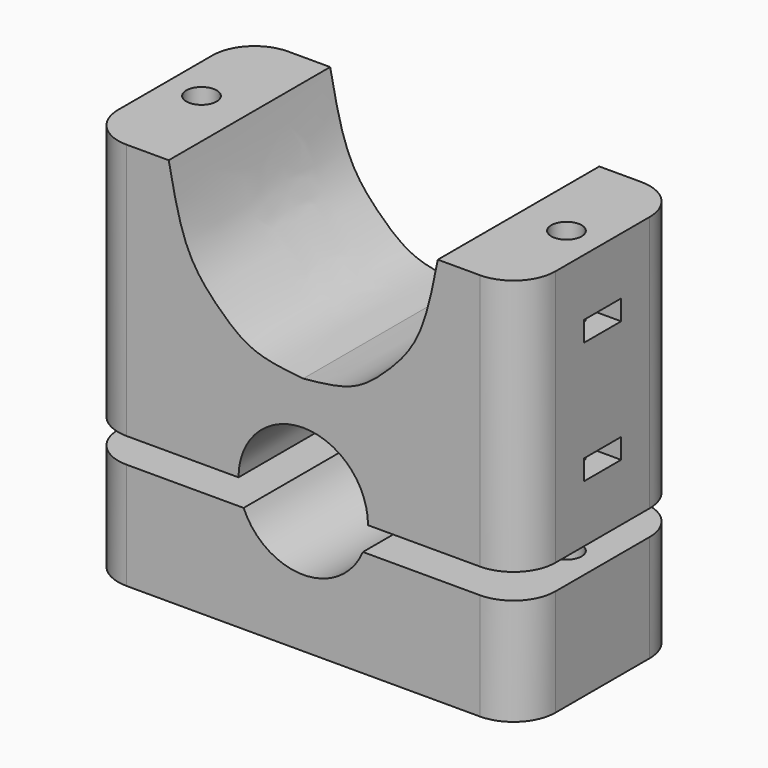
from build123d import *

# Parameters (mm, degrees)
F0_R      = 1.8
F1_DEPTH  = 30.5
F3_DEPTH  = 24
F4_DEPTH  = 24
F5_W      = 5.5
F5_H      = 2.4
F6_DEPTH  = 7.2
F7_W      = 5.5
F7_H      = 2.4
F8_DEPTH  = 7.2
F10_DEPTH = 12
F12_DEPTH = 15.7
F13_DEPTH = 25


with BuildPart() as f1:
    # F0 (on Top) → F1 (new body)
    with BuildSketch(Plane.XY):
        with BuildLine():
            Line((21, 12), (-21, 12))
            ThreePointArc((-21, 12), (-24.5355339059, 10.5355339059), (-26, 7))
            Line((-26, 7), (-26, -7))
            ThreePointArc((-26, -7), (-24.5355339059, -10.5355339059), (-21, -12))
            Line((-21, -12), (21, -12))
            ThreePointArc((21, -12), (24.5355339059, -10.5355339059), (26, -7))
            Line((26, -7), (26, 7))
            ThreePointArc((26, 7), (24.5355339059, 10.5355339059), (21, 12))
        make_face()
        with Locations((-21.7, 0)):
            Circle(F0_R, mode=Mode.SUBTRACT)
        with Locations((21.7, 0)):
            Circle(F0_R, mode=Mode.SUBTRACT)
    extrude(amount=F1_DEPTH)

    # F2 (on face) → F3 (cut)
    with BuildSketch(Plane.XZ.offset(12)):
        with BuildLine():
            Line((-7.7, 0), (7.7, 0))
            ThreePointArc((7.7, 0), (0, 7.7), (-7.7, 0))
        make_face()
    extrude(amount=-F3_DEPTH, mode=Mode.SUBTRACT)

    # F2 (on face) → F4 (cut)
    with BuildSketch(Plane.XZ.offset(12)):
        with BuildLine():
            add(Edge.make_bspline(
                [(16, 30.5), (15.6402049563, 28.676106739), (14.9380037687, 25.116469005), (13.2652945813, 20.3413719416), (9.7075187386, 16.503128812), (5.9474712871, 13.4288235739), (2.0555929251, 13.0500557188), (0, 12.85)],
                knots=[0, 0, 0, 0, 0.2052327864, 0.4005466691, 0.5983966169, 0.7878831258, 1, 1, 1, 1], degree=3))
            Line((16, 30.5), (0, 30.5))
            Line((0, 30.5), (-16, 30.5))
            add(Edge.make_bspline(
                [(-16, 30.5), (-15.6402049563, 28.676106739), (-14.9380037687, 25.116469005), (-13.2652945813, 20.3413719416), (-9.7075187386, 16.503128812), (-5.9474712871, 13.4288235739), (-2.0555929251, 13.0500557188), (0, 12.85)],
                knots=[0, 0, 0, 0, 0.2052327864, 0.4005466691, 0.5983966169, 0.7878831258, 1, 1, 1, 1], degree=3))
        make_face()
    extrude(amount=-F4_DEPTH, mode=Mode.SUBTRACT)

    # F5 (on face) → F6 (cut)
    with BuildSketch(Plane(origin=(-26, 0, 0), x_dir=(0, -1, 0), z_dir=(-1, 0, 0))):
        with Locations((0, 8)):
            Rectangle(F5_W, F5_H)
        with Locations((0, 22.5)):
            Rectangle(F5_W, F5_H)
    extrude(amount=-F6_DEPTH, mode=Mode.SUBTRACT)

    # F7 (on face) → F8 (cut)
    with BuildSketch(Plane.YZ.offset(26)):
        with Locations((0, 8)):
            Rectangle(F7_W, F7_H)
        with Locations((0, 22.5)):
            Rectangle(F7_W, F7_H)
    extrude(amount=-F8_DEPTH, mode=Mode.SUBTRACT)


with BuildPart() as f10:
    # F9 (on Front) → F10 (new body, symmetric)
    with BuildSketch(Plane.XZ):
        with BuildLine():
            Line((-26, -3), (-26, -15.7))
            Line((-26, -15.7), (26, -15.7))
            Line((26, -15.7), (26, -3))
            Line((26, -3), (7.0915442606, -3))
            ThreePointArc((7.0915442606, -3), (0, -7.7), (-7.0915442606, -3))
            Line((-7.0915442606, -3), (-26, -3))
        make_face()
    extrude(amount=F10_DEPTH, both=True)

    # F11 (on face) → F12 (cut)
    with BuildSketch(Plane(origin=(0, 0, -15.7), x_dir=(1, 0, 0), z_dir=(0, 0, -1))):
        with BuildLine():
            Line((26, 12), (21, 12))
            ThreePointArc((21, 12), (24.5355339059, 10.5355339059), (26, 7))
            Line((26, 7), (26, 12))
        make_face()
        with BuildLine():
            Line((26, -12), (26, -7))
            ThreePointArc((26, -7), (24.5355339059, -10.5355339059), (21, -12))
            Line((21, -12), (26, -12))
        make_face()
        with BuildLine():
            ThreePointArc((-21, -12), (-24.5355339059, -10.5355339059), (-26, -7))
            Line((-26, -7), (-26, -12))
            Line((-26, -12), (-21, -12))
        make_face()
        with BuildLine():
            ThreePointArc((-26, 7), (-24.5355339059, 10.5355339059), (-21, 12))
            Line((-21, 12), (-26, 12))
            Line((-26, 12), (-26, 7))
        make_face()
    extrude(amount=-F12_DEPTH, mode=Mode.SUBTRACT)

    # F0 (on Top) → F13 (cut)
    with BuildSketch(Plane.XY):
        with Locations((-21.7, 0)):
            Circle(F0_R)
        with Locations((21.7, 0)):
            Circle(F0_R)
    extrude(amount=-F13_DEPTH, mode=Mode.SUBTRACT)


solid = Compound([f1.part, f10.part])
